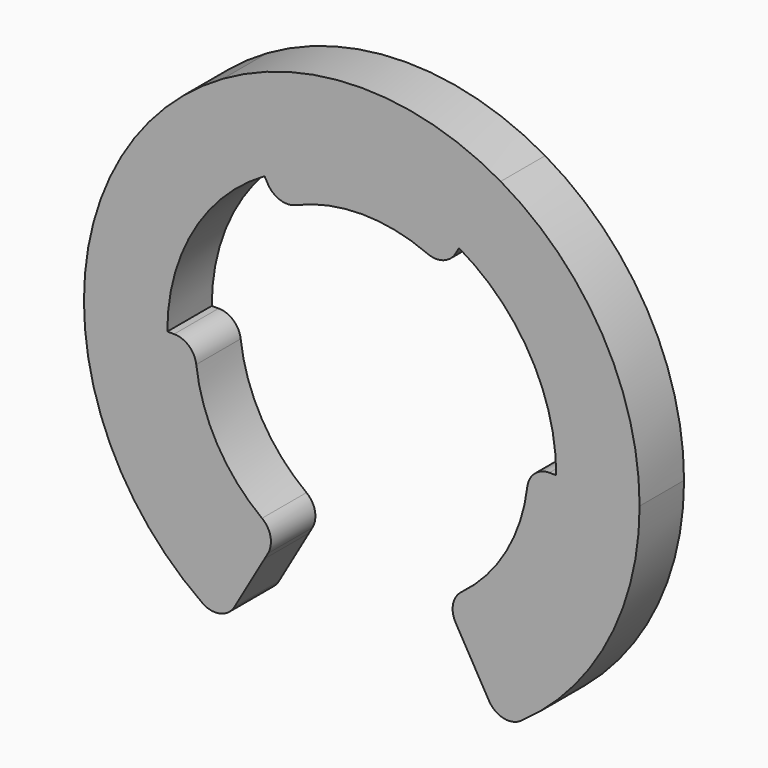
from build123d import *

# Parameters (mm, degrees)
F1_DEPTH = 5
F2_R     = 2


with BuildPart() as f1:
    # F0 (on Front) → F1 (new body)
    with BuildSketch(Plane.XZ):
        with BuildLine():
            Line((-8.75, 15.1554445662), (-12.5, 21.6506350946))
            ThreePointArc((-12.5, 21.6506350946), (-21.6506350946, 12.5), (-25, 0))
            Line((-25, 0), (-17.5, 0))
            ThreePointArc((-17.5, 0), (-15.1554445662, 8.75), (-8.75, 15.1554445662))
        make_face()
        with BuildLine():
            Line((-17.5, 0), (-25, 0))
            ThreePointArc((-25, 0), (-21.6506350946, -12.5), (-12.5, -21.6506350946))
            Line((-12.5, -21.6506350946), (-8.75, -15.1554445662))
            ThreePointArc((-8.75, -15.1554445662), (-15.1554445662, -8.75), (-17.5, 0))
        make_face()
        with BuildLine():
            Line((-15, 0), (-17.5, 0))
            ThreePointArc((-17.5, 0), (-15.1554445662, -8.75), (-8.75, -15.1554445662))
            Line((-8.75, -15.1554445662), (-7.5, -12.9903810568))
            ThreePointArc((-7.5, -12.9903810568), (-12.9903810568, -7.5), (-15, 0))
        make_face()
        with BuildLine():
            Line((7.5, 12.9903810568), (8.75, 15.1554445662))
            ThreePointArc((8.75, 15.1554445662), (0, 17.5), (-8.75, 15.1554445662))
            Line((-8.75, 15.1554445662), (-7.5, 12.9903810568))
            ThreePointArc((-7.5, 12.9903810568), (0, 15), (7.5, 12.9903810568))
        make_face()
        with BuildLine():
            Line((8.75, 15.1554445662), (12.5, 21.6506350946))
            ThreePointArc((12.5, 21.6506350946), (0, 25), (-12.5, 21.6506350946))
            Line((-12.5, 21.6506350946), (-8.75, 15.1554445662))
            ThreePointArc((-8.75, 15.1554445662), (0, 17.5), (8.75, 15.1554445662))
        make_face()
        with BuildLine():
            Line((17.5, 0), (25, 0))
            ThreePointArc((25, 0), (21.6506350946, 12.5), (12.5, 21.6506350946))
            Line((12.5, 21.6506350946), (8.75, 15.1554445662))
            ThreePointArc((8.75, 15.1554445662), (15.1554445662, 8.75), (17.5, 0))
        make_face()
        with BuildLine():
            Line((7.5, -12.9903810568), (8.75, -15.1554445662))
            ThreePointArc((8.75, -15.1554445662), (15.1554445662, -8.75), (17.5, 0))
            Line((17.5, 0), (15, 0))
            ThreePointArc((15, 0), (12.9903810568, -7.5), (7.5, -12.9903810568))
        make_face()
        with BuildLine():
            Line((8.75, -15.1554445662), (12.5, -21.6506350946))
            ThreePointArc((12.5, -21.6506350946), (21.6506350946, -12.5), (25, 0))
            Line((25, 0), (17.5, 0))
            ThreePointArc((17.5, 0), (15.1554445662, -8.75), (8.75, -15.1554445662))
        make_face()
    extrude(amount=F1_DEPTH)

    # F2
    f2_edges = [f1.edges().sort_by_distance(p)[0] for p in [
        (7.5, -2.5, 12.990381),
        (-7.5, -2.5, 12.990381),
        (-15, -2.5, 0),
        (-7.5, -2.5, -12.990381),
        (7.5, -2.5, -12.990381),
        (15, -2.5, 0),
        (-12.5, -2.5, -21.650635),
        (12.5, -2.5, -21.650635),
    ]]
    fillet(f2_edges, radius=F2_R)


solid = f1.part
